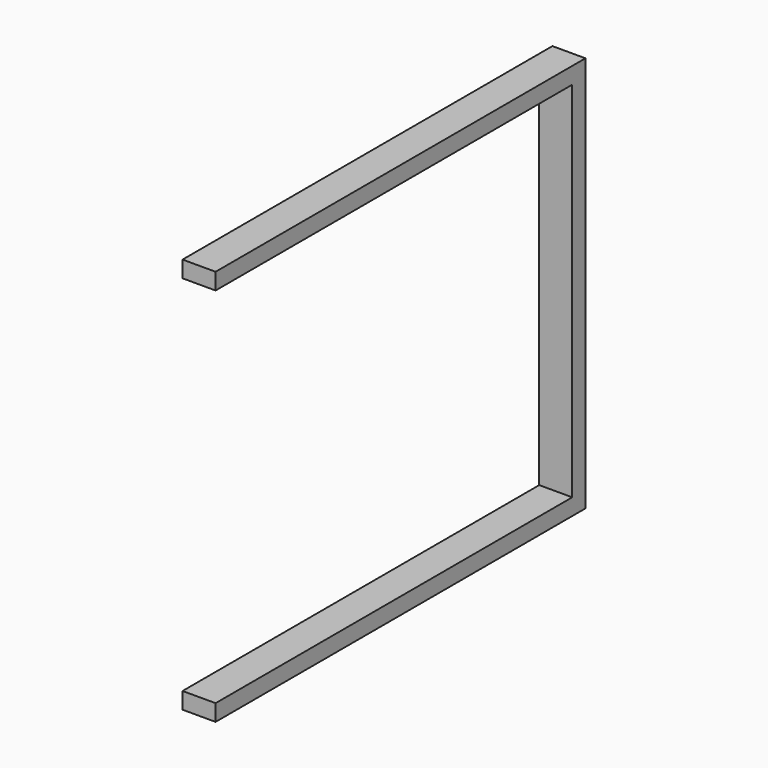
from build123d import *

# Parameters (mm, degrees)
F0_W     = 50.8
F0_H     = 736.6
F1_DEPTH = 609.6
F2_W     = 685.8
F2_H     = 558.8
F3_DEPTH = 50.8
F4_W     = 25.4
F4_H     = 609.6
F5_DEPTH = 50.8


with BuildPart() as f1:
    # F0 (on Top) → F1 (new body)
    with BuildSketch(Plane.XY):
        with Locations((-589.687777, 189.852441)):
            Rectangle(F0_W, F0_H)
    extrude(amount=F1_DEPTH)

    # F2 (on face) → F3 (cut)
    with BuildSketch(Plane(origin=(-615.087777, 0, 0), x_dir=(0, -1, 0), z_dir=(-1, 0, 0))):
        with Locations((-189.852441, 304.8)):
            Rectangle(F2_W, F2_H)
    extrude(amount=-F3_DEPTH, mode=Mode.SUBTRACT)

    # F4 (on face) → F5 (cut)
    with BuildSketch(Plane(origin=(-615.087777, 0, 0), x_dir=(0, -1, 0), z_dir=(-1, 0, 0))):
        with Locations((165.747559, 304.8)):
            Rectangle(F4_W, F4_H)
    extrude(amount=-F5_DEPTH, mode=Mode.SUBTRACT)


solid = f1.part
